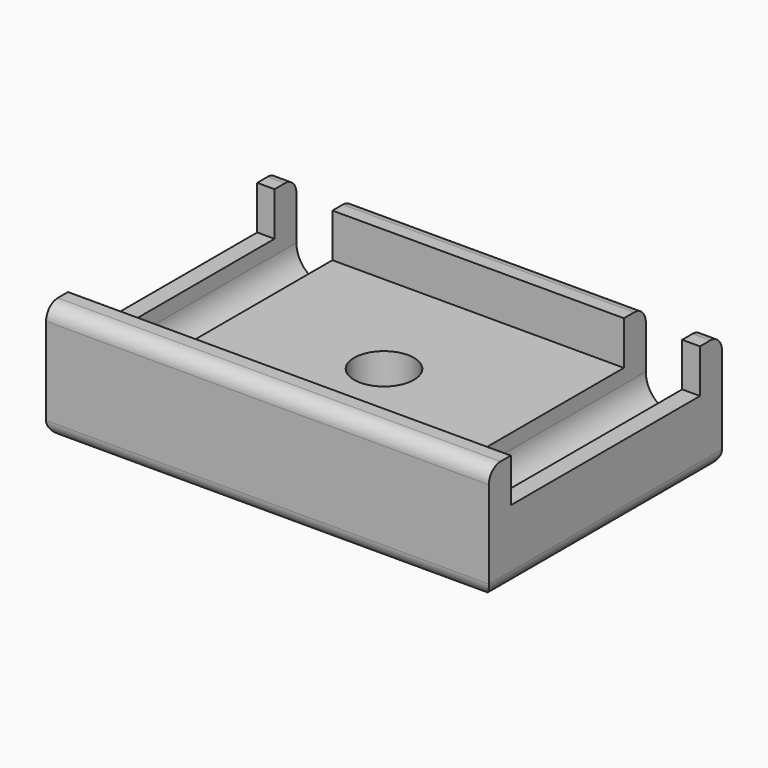
from build123d import *

# Parameters (mm, degrees)
F0_W     = 48.26
F0_H     = 31.75
F1_DEPTH = 12.7
F2_W     = 48.26
F2_H     = 25.781
F3_DEPTH = 4.7625
F5_DEPTH = 28.575
F6_R     = 3.2639
F7_DEPTH = 7.9375
F6_R_2   = 8.89
F8_DEPTH = 2.54
F9_R     = 1.5875
F10_R    = 1.5875
F11_R    = 1.5875
F12_R    = 1.5875


with BuildPart() as f1:
    # F0 (on Top) → F1 (new body)
    with BuildSketch(Plane.XY):
        Rectangle(F0_W, F0_H)
    extrude(amount=F1_DEPTH)

    # F2 (on face) → F3 (cut)
    with BuildSketch(Plane.XY.offset(12.7)):
        Rectangle(F2_W, F2_H)
    extrude(amount=-F3_DEPTH, mode=Mode.SUBTRACT)

    # F4 (on face) → F5 (cut)
    with BuildSketch(Plane(origin=(0, 15.875, 0), x_dir=(-1, 0, 0), z_dir=(0, 1, 0))):
        with BuildLine():
            Line((-22.1851086635, 12.7), (-22.1851086635, 6.3481266276))
            ThreePointArc((-22.1851086635, 6.3481266276), (-19.0101086706, 3.1731266347), (-15.8351086777, 6.3481266276))
            Line((-15.8351086777, 6.3481266276), (-15.8351086777, 12.7))
            Line((-15.8351086777, 12.7), (-22.1851086635, 12.7))
        make_face()
        with BuildLine():
            Line((22.2424135567, 12.7), (15.9373691021, 12.7))
            Line((15.9373691021, 12.7), (15.9373691021, 6.3481266276))
            ThreePointArc((15.9373691021, 6.3481266276), (19.0898913294, 3.1956044003), (22.2424135567, 6.3481266276))
            Line((22.2424135567, 6.3481266276), (22.2424135567, 12.7))
        make_face()
    extrude(amount=-F5_DEPTH, mode=Mode.SUBTRACT)

    # F6 (on face) → F7 (cut, through all)
    with BuildSketch(Plane(origin=(0, 0, 0), x_dir=(1, 0, 0), z_dir=(0, 0, -1))):
        Circle(F6_R)
    extrude(amount=-F7_DEPTH, mode=Mode.SUBTRACT)

    # F6 (on face) → F8 (cut)
    with BuildSketch(Plane(origin=(0, 0, 0), x_dir=(1, 0, 0), z_dir=(0, 0, -1))):
        Circle(F6_R_2)
        Circle(F6_R, mode=Mode.SUBTRACT)
    extrude(amount=-F8_DEPTH, mode=Mode.SUBTRACT)

    # F9
    f9_edges = [f1.edges().sort_by_distance(p)[0] for p in [
        (24.13, 0, 0),
        (0, 15.875, 0),
        (-24.13, 0, 0),
        (0, -15.875, 0),
        (-8.89, 0, 0),
    ]]
    fillet(f9_edges, radius=F9_R)

    # F10
    f10_edges = [f1.edges().sort_by_distance(p)[0] for p in [
        (-0.05113, 15.875, 12.7),
        (0, -15.875, 12.7),
    ]]
    fillet(f10_edges, radius=F10_R)

    # F11
    f11_edges = [f1.edges().sort_by_distance(p)[0] for p in [
        (-23.186207, 15.875, 12.7),
    ]]
    fillet(f11_edges, radius=F11_R)

    # F12
    f12_edges = [f1.edges().sort_by_distance(p)[0] for p in [
        (23.157554, 15.875, 12.7),
    ]]
    fillet(f12_edges, radius=F12_R)


solid = f1.part
